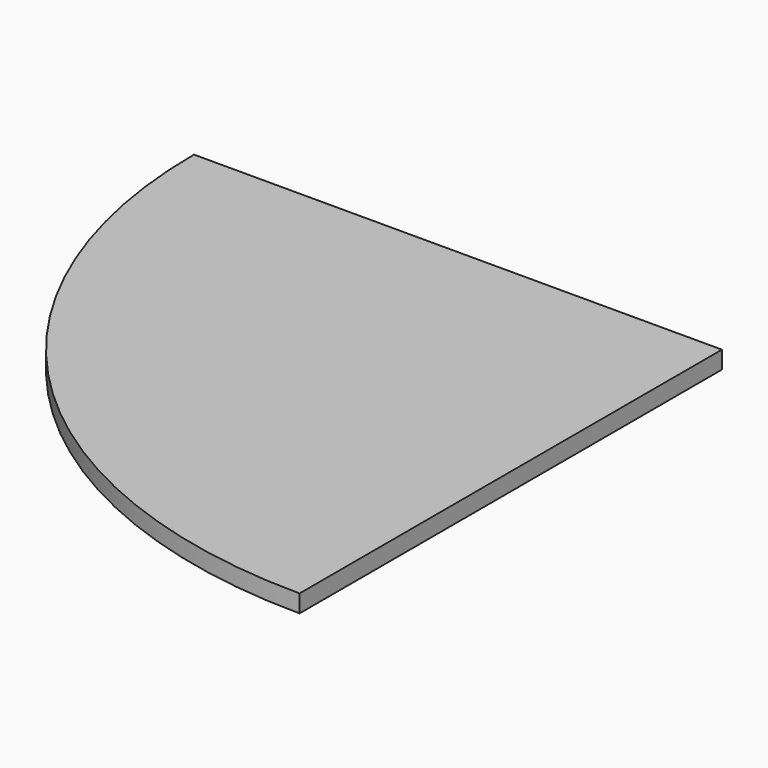
from build123d import *

# Parameters (mm, degrees)
PAD_DEPTH = 152.4


with BuildPart() as part:
    # Sketch → Pad (new body)
    with BuildSketch(Plane.XY):
        with BuildLine():
            Line((0, 0), (0, -4572))
            ThreePointArc((-4572, 0), (-3231.963369, -3231.963369), (0, -4572))
            Line((0, 0), (-4572, 0))
        make_face()
    extrude(amount=PAD_DEPTH)


solid = part.part
